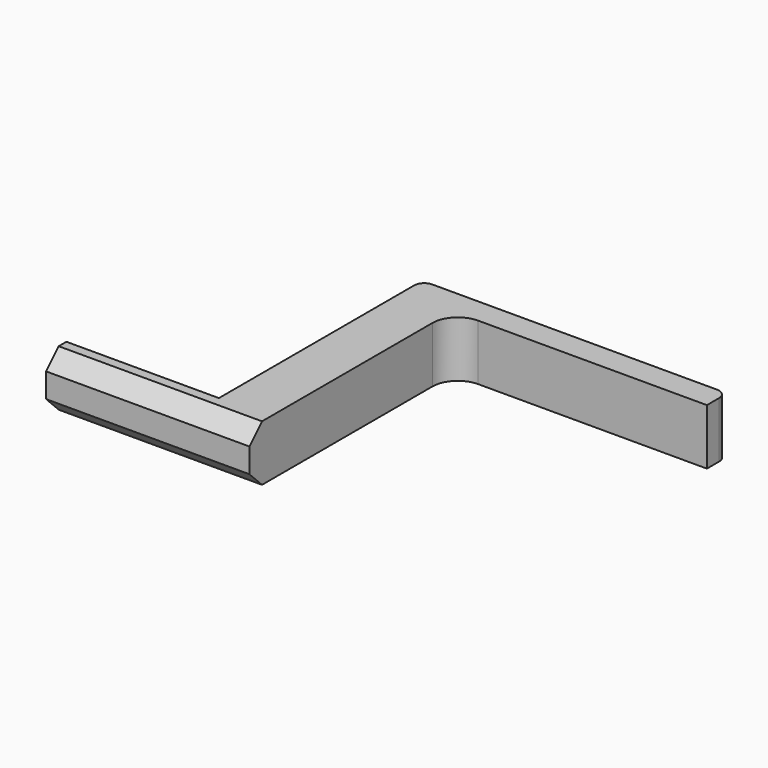
from build123d import *

# Parameters (mm, degrees)
PAD_DEPTH    = 11
CHAMFER_SIZE = 3.1
FILLET_R     = 2
FILLET001_R  = 5


with BuildPart() as part:
    # Sketch → Pad (new body)
    with BuildSketch(Plane.XY):
        Polygon((-50.544724, -24.61614), (-50.544724, -29.61614), (-10.544724, -29.61614), (-10.544724, 20.38386), (39.455276, 20.38386), (39.455276, 25.38386), (-20.544724, 25.38386), (-20.544724, -24.61614), align=None)
    extrude(amount=PAD_DEPTH)

    # Chamfer
    chamfer_edges = [part.edges().sort_by_distance(p)[0] for p in [
        (-30.544724, -29.61614, 0),
        (-30.544724, -29.61614, 11),
    ]]
    chamfer(chamfer_edges, length=CHAMFER_SIZE)

    # Fillet
    fillet_edges = [part.edges().sort_by_distance(p)[0] for p in [
        (39.455276, 25.38386, 5.5),
        (-20.544724, 25.38386, 5.5),
    ]]
    fillet(fillet_edges, radius=FILLET_R)

    # Fillet001
    fillet001_edges = [part.edges().sort_by_distance(p)[0] for p in [
        (-10.544724, 20.38386, 5.5),
    ]]
    fillet(fillet001_edges, radius=FILLET001_R)


solid = part.part
